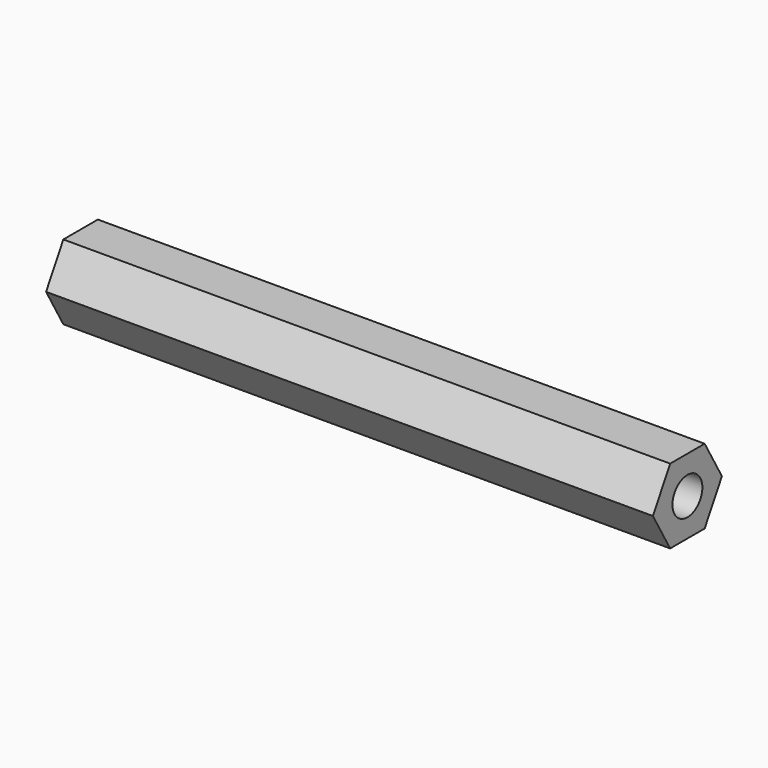
from build123d import *

# Parameters (mm, degrees)
F1_DEPTH = 103.1875
F2_R     = 3.175
F3_DEPTH = 103.1885


with BuildPart() as f1:
    # F0 (on Right) → F1 (new body)
    with BuildSketch(Plane.YZ):
        Polygon((3.666174, 6.35), (-3.666174, 6.35), (-7.332348, 0), (-3.666174, -6.35), (3.666174, -6.35), (7.332348, 0), align=None)
    extrude(amount=F1_DEPTH)

    # F2 (on face) → F3 (cut, through all)
    with BuildSketch(Plane.YZ.offset(103.1875)):
        Circle(F2_R)
    extrude(amount=-F3_DEPTH, mode=Mode.SUBTRACT)


solid = f1.part
